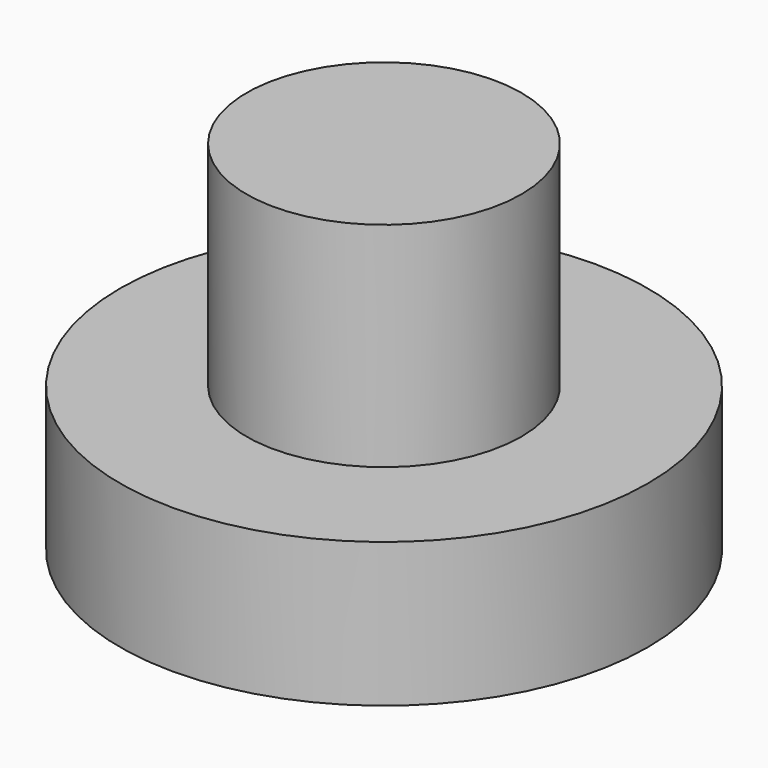
from build123d import *

# Parameters (mm, degrees)
F0_R     = 23.836788
F2_DEPTH = 62
F3_R     = 45.7795
F3_R_2   = 21.418508
F4_DEPTH = 25


with BuildPart() as f2:
    # F0 (on Top) → F2 (new body)
    with BuildSketch(Plane.XY):
        Circle(F0_R)
    extrude(amount=F2_DEPTH)

    # F3 (on face) → F4 (join)
    with BuildSketch(Plane.XY):
        Circle(F3_R)
        Circle(F3_R_2, mode=Mode.SUBTRACT)
    extrude(amount=F4_DEPTH)


solid = f2.part
